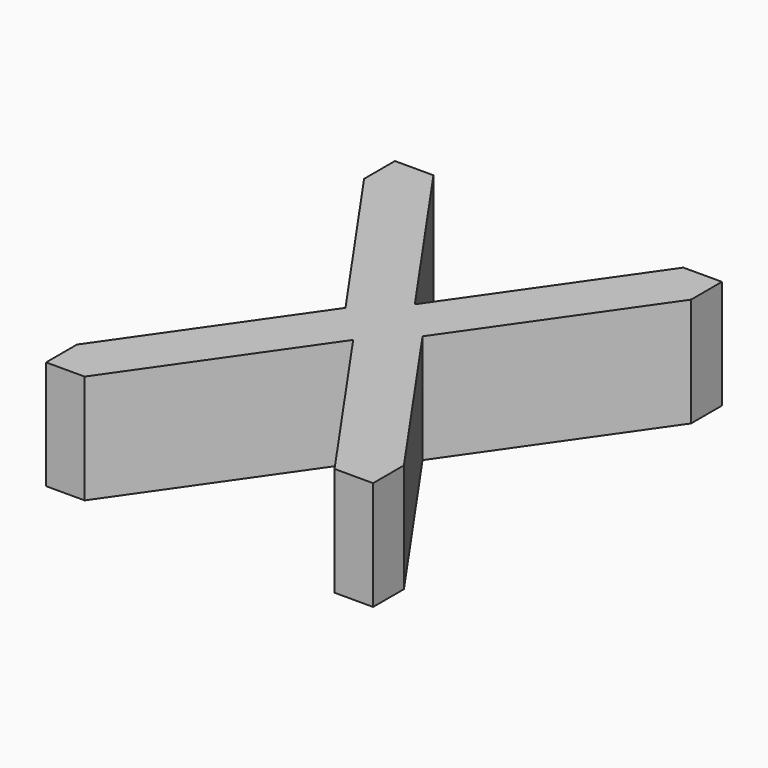
from build123d import *

# Parameters (mm, degrees)
F1_DEPTH = 8


with BuildPart() as f1:
    # F0 (on Top) → F1 (new body)
    with BuildSketch(Plane.XY):
        Polygon((2.828427, 0), (0, 0), (0, -2.828427), (9.171573, -16), (0, -29.171573), (0, -32), (2.828427, -32), (12, -18.828427), (21.171573, -32), (24, -32), (24, -29.171573), (14.828427, -16), (24, -2.828427), (24, 0), (21.171573, 0), (12, -13.171573), align=None)
    extrude(amount=F1_DEPTH)


solid = f1.part
